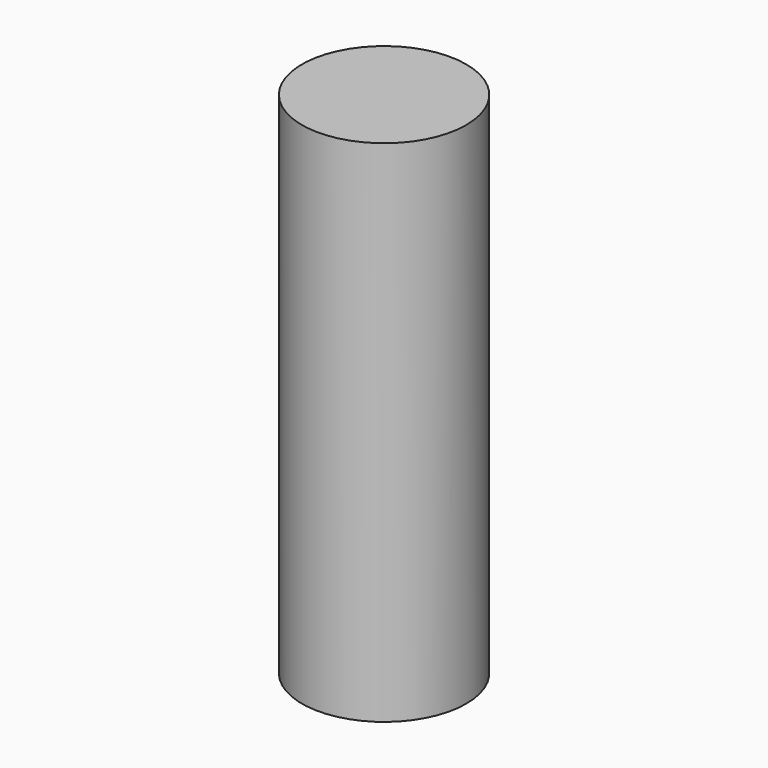
from build123d import *

# Parameters (mm, degrees)
SKETCH_R  = 2.5
PAD_DEPTH = 15.5


with BuildPart() as part:
    # Sketch → Pad (new body)
    with BuildSketch(Plane.XY):
        Circle(SKETCH_R)
    extrude(amount=PAD_DEPTH)


solid = part.part
